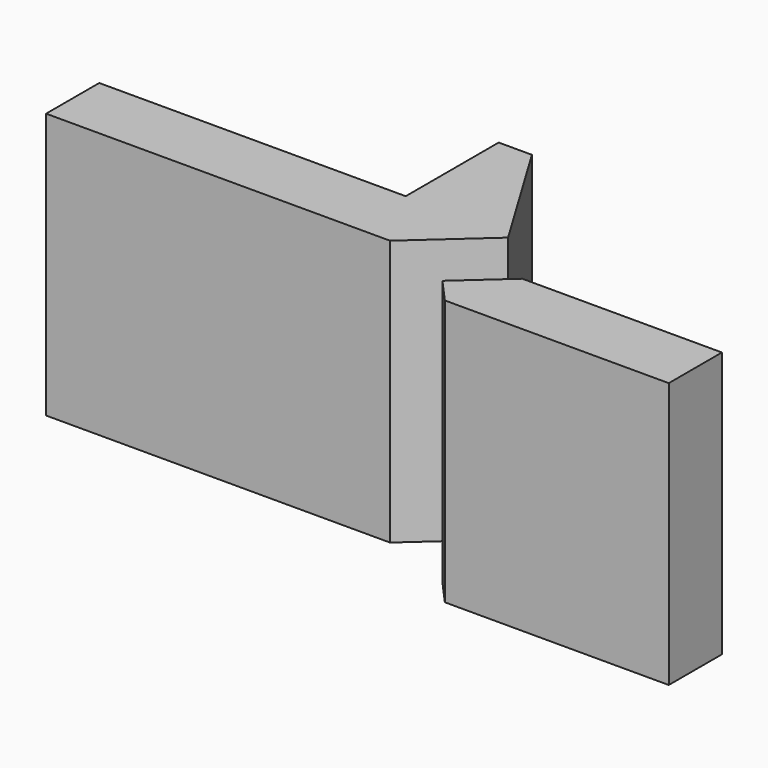
from build123d import *

# Parameters (mm, degrees)
F1_DEPTH = 40


with BuildPart() as f1:
    # F0 (on Top) → F1 (new body)
    with BuildSketch(Plane.XY):
        Polygon((21.83096, 5), (-24.298778, 5), (-24.298778, -5), (27.469539, -5), (37.810601, 4.283274), (26.83096, 22.492822), (21.83096, 22.492822), align=None)
        Polygon((75.701222, -12.844663), (75.701222, -2.844663), (45.653763, -2.844663), (38.658969, -9.123959), (41.999082, -12.844663), align=None)
    extrude(amount=F1_DEPTH)


solid = f1.part
